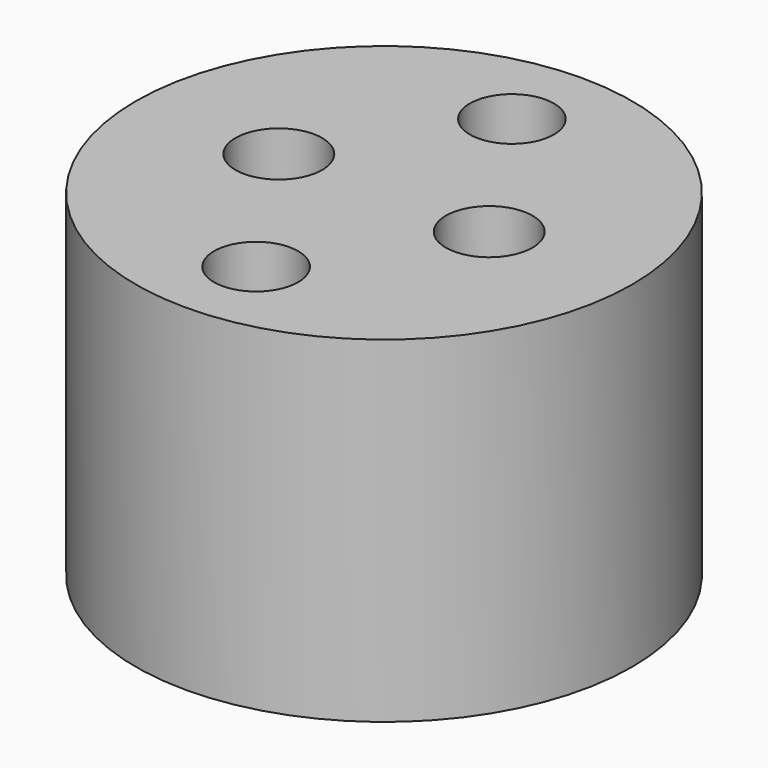
from build123d import *

# Parameters (mm, degrees)
F0_R           = 29.5
F1_DEPTH       = 40
F3_D           = 10.3
F3_DEPTH       = 25
F3_TIP         = 3.094432188
F5_D           = 6.5
F5_CBORE_D     = 10
F5_CBORE_DEPTH = 23


with BuildPart() as f1:
    # F0 (on Top) → F1 (new body)
    with BuildSketch(Plane.XY):
        Circle(F0_R)
    extrude(amount=F1_DEPTH)

    # F3
    with Locations(Plane.XY.offset(40)):
        with Locations((-12.5, 0), (12.5, 0)):
            Hole(F3_D / 2, depth=F3_DEPTH)
            with Locations((0, 0, -(F3_DEPTH + F3_TIP / 2))):  # 118° drill point
                Cone(0, F3_D / 2, F3_TIP, mode=Mode.SUBTRACT)

    # F5 (through all)
    with Locations(Plane.XY.offset(40)):
        with Locations((0, 19), (0, -19)):
            CounterBoreHole(F5_D / 2, F5_CBORE_D / 2, F5_CBORE_DEPTH)


solid = f1.part
